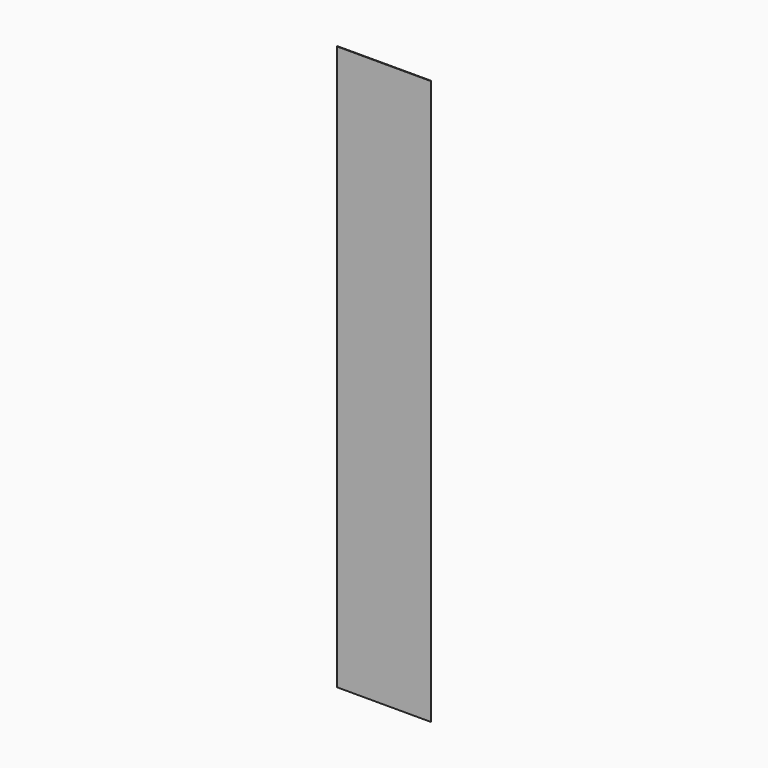
from build123d import *

# Parameters (mm, degrees)
BOX_W     = 83.333333
BOX_H     = 0.5
BOX_DEPTH = 500


with BuildPart() as part:
    # Box → Box (new body)
    with BuildSketch(Plane.XY):
        with Locations((41.666666, 0.25)):
            Rectangle(BOX_W, BOX_H)
    extrude(amount=BOX_DEPTH)


solid = part.part
